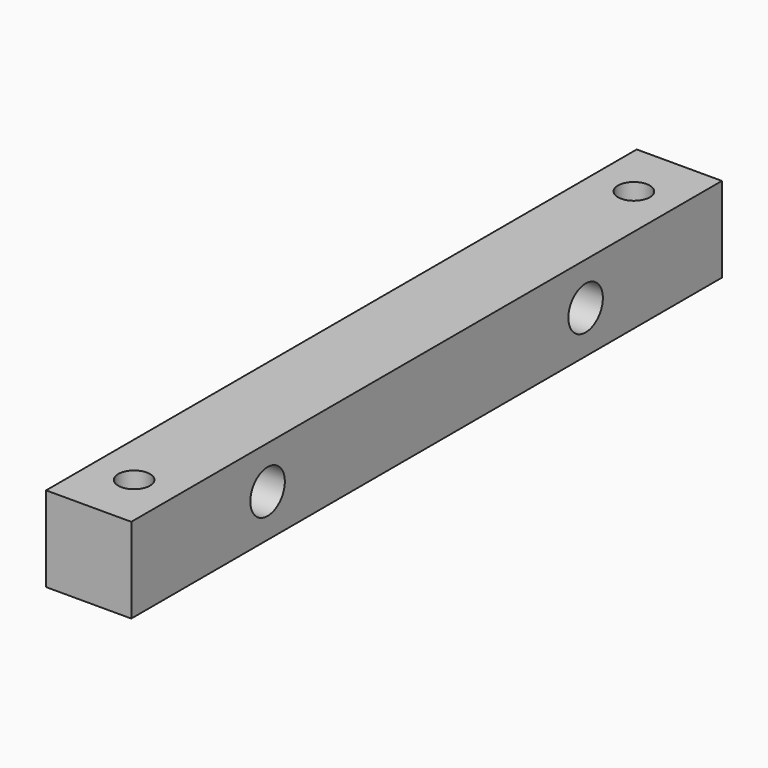
from build123d import *

# Parameters (mm, degrees)
F0_W     = 9.525
F0_H     = 9.525
F1_DEPTH = 41.275
F2_R     = 1.778
F3_DEPTH = 9.526
F4_R     = 2.413
F5_DEPTH = 9.526


with BuildPart() as f1:
    # F0 (on Front) → F1 (new body, symmetric)
    with BuildSketch(Plane.XZ):
        Rectangle(F0_W, F0_H)
    extrude(amount=F1_DEPTH, both=True)

    # F2 (on face) → F3 (cut, through all)
    with BuildSketch(Plane.XY.offset(4.7625)):
        with Locations((0, 34.925)):
            Circle(F2_R)
        with Locations((0, -34.925)):
            Circle(F2_R)
    extrude(amount=-F3_DEPTH, mode=Mode.SUBTRACT)

    # F4 (on face) → F5 (cut, through all)
    with BuildSketch(Plane(origin=(-4.7625, 0, 0), x_dir=(0, -1, 0), z_dir=(-1, 0, 0))):
        with Locations((-22.225, 0)):
            Circle(F4_R)
        with Locations((22.225, 0)):
            Circle(F4_R)
    extrude(amount=-F5_DEPTH, mode=Mode.SUBTRACT)


solid = f1.part
